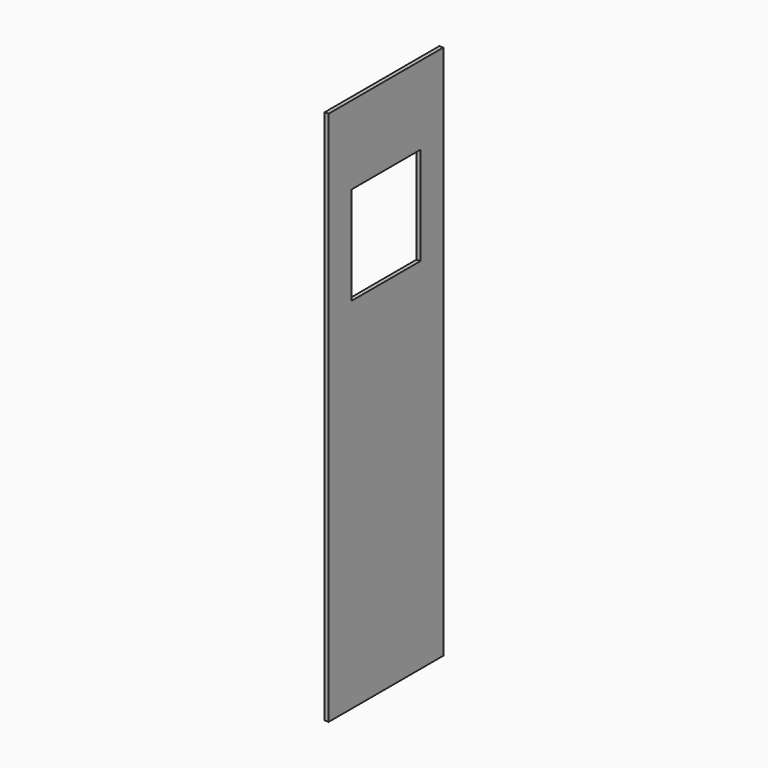
from build123d import *

# Parameters (mm, degrees)
F0_W     = 650
F0_H     = 2430
F1_DEPTH = 18
F2_W     = 390
F2_H     = 445
F3_DEPTH = 18.001


with BuildPart() as f1:
    # F0 (on Right) → F1 (new body)
    with BuildSketch(Plane.YZ):
        with Locations((325, 1215)):
            Rectangle(F0_W, F0_H)
    extrude(amount=-F1_DEPTH)

    # F2 (on face) → F3 (cut, through all)
    with BuildSketch(Plane.YZ):
        with Locations((325, 1852)):
            Rectangle(F2_W, F2_H)
    extrude(amount=-F3_DEPTH, mode=Mode.SUBTRACT)


solid = f1.part
